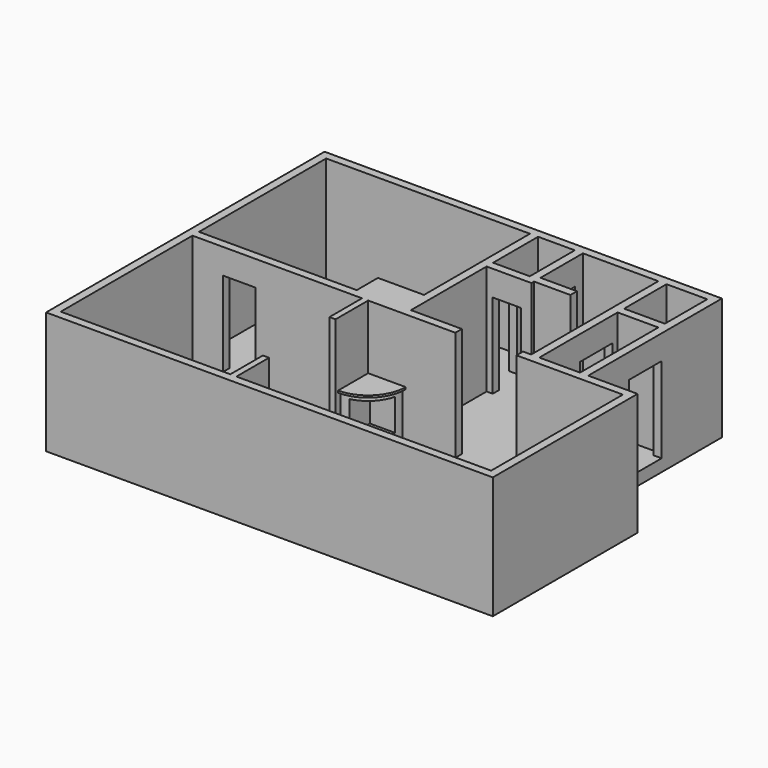
from build123d import *

# Parameters (mm, degrees)
F0_W      = 1000
F0_H      = 2400
F0_W_2    = 900
F0_H_2    = 1380
F0_H_3    = 1300
F1_DEPTH  = 2700
F3_DEPTH  = 300
F4_W      = 700
F4_H      = 2080
F5_DEPTH  = 200
F6_W      = 700
F6_H      = 2080
F7_DEPTH  = 200
F8_W      = 800
F8_H      = 2080
F9_DEPTH  = 200
F11_DEPTH = 1080
F13_DEPTH = 50
F15_START = -159
F14_W     = 1265.3409564789
F14_H     = 990.9356449679
F15_DEPTH = 781
F16_W     = 1000
F16_H     = 2100
F17_DEPTH = 1400
F18_W     = 800
F18_H     = 2080
F19_DEPTH = 200


with BuildPart() as f1:
    # F0 (on Top) → F1 (new body)
    with BuildSketch(Plane.XY):
        Polygon((9750, 0), (0, 0), (0, -8540), (10960, -8540), (10960, -4100), (9750, -4100), align=None)
        Polygon((200, -4100), (200, -200), (5200, -200), (5200, -3450), (4070, -3450), (4070, -4100), align=None, mode=Mode.SUBTRACT)
        Polygon((200, -8340), (200, -4300), (4360, -4300), (4360, -5300), (4510, -5300), (4510, -4300), (6650, -4300), (6650, -4100), (5400, -4100), (5400, -1780), (6500, -1780), (6500, -1700), (7393.1846618652, -1700), (7393.1846618652, -1500), (6500, -1500), (6500, -200), (8350, -200), (8350, -1700), (8350, -4100), (8150, -4100), (8150, -4300), (10760, -4300), (10760, -8340), (4510, -8340), (4510, -7340), (4360, -7340), (4360, -8340), align=None, mode=Mode.SUBTRACT)
        with Locations((9050, -2900)):
            Rectangle(F0_W, F0_H, mode=Mode.SUBTRACT)
        with Locations((5850, -890)):
            Rectangle(F0_W_2, F0_H_2, mode=Mode.SUBTRACT)
        with Locations((9050, -850)):
            Rectangle(F0_W, F0_H_3, mode=Mode.SUBTRACT)
    extrude(amount=F1_DEPTH)

    # F2 (on face) → F3 (join)
    with BuildSketch(Plane(origin=(0, 0, 0), x_dir=(1, 0, 0), z_dir=(0, 0, -1))):
        Polygon((0, 8540), (0, 0), (9750, 0), (9750, 4100), (10960, 4100), (10960, 8540), align=None)
    extrude(amount=F3_DEPTH)

    # F4 (on face) → F5 (cut, through all)
    with BuildSketch(Plane.XZ.offset(1780)):
        with Locations((5900, 1040)):
            Rectangle(F4_W, F4_H)
    extrude(amount=-F5_DEPTH, mode=Mode.SUBTRACT)

    # F6 (on face) → F7 (cut, through all)
    with BuildSketch(Plane.YZ.offset(5400)):
        with Locations((-1200, 1040)):
            Rectangle(F6_W, F6_H)
    extrude(amount=-F7_DEPTH, mode=Mode.SUBTRACT)

    # F8 (on face) → F9 (cut, through all)
    with BuildSketch(Plane(origin=(6300, 0, 0), x_dir=(0, -1, 0), z_dir=(-1, 0, 0))):
        with Locations((850, 1040)):
            Rectangle(F8_W, F8_H)
    extrude(amount=-F9_DEPTH, mode=Mode.SUBTRACT)

    # F10 (on face) → F11 (join)
    with BuildSketch(Plane.XY):
        with BuildLine():
            Line((5358.5281374239, -4300), (4510, -4300))
            Line((4510, -4300), (4510, -5148.5281374239))
            ThreePointArc((4510, -5148.5281374239), (5110, -4900), (5358.5281374239, -4300))
        make_face()
    extrude(amount=F11_DEPTH)

    # F12 (on face) → F13 (join)
    with BuildSketch(Plane.XY.offset(1080)):
        with BuildLine():
            Line((4510, -4300), (4510, -5221.4100177281))
            ThreePointArc((4510, -5221.4100177281), (5161.5352717887, -4951.5352717887), (5431.4100177281, -4300))
            Line((5431.4100177281, -4300), (4510, -4300))
        make_face()
    extrude(amount=F13_DEPTH)

    # F14 (on face) → F15 (cut)
    with BuildSketch(Plane.XY.offset(1130).offset(F15_START)):
        with Locations((5342.6704782395, -4995.4678224839)):
            Rectangle(F14_W, F14_H)
    extrude(amount=-F15_DEPTH, mode=Mode.SUBTRACT)

    # F16 (on face) → F17 (cut, through all)
    with BuildSketch(Plane(origin=(8350, 0, 0), x_dir=(0, -1, 0), z_dir=(-1, 0, 0))):
        with Locations((2350, 1050)):
            Rectangle(F16_W, F16_H)
    extrude(amount=-F17_DEPTH, mode=Mode.SUBTRACT)

    # F18 (on face) → F19 (cut, through all)
    with BuildSketch(Plane.XZ.offset(4300)):
        with Locations((1350, 1040)):
            Rectangle(F18_W, F18_H)
    extrude(amount=-F19_DEPTH, mode=Mode.SUBTRACT)


solid = f1.part
